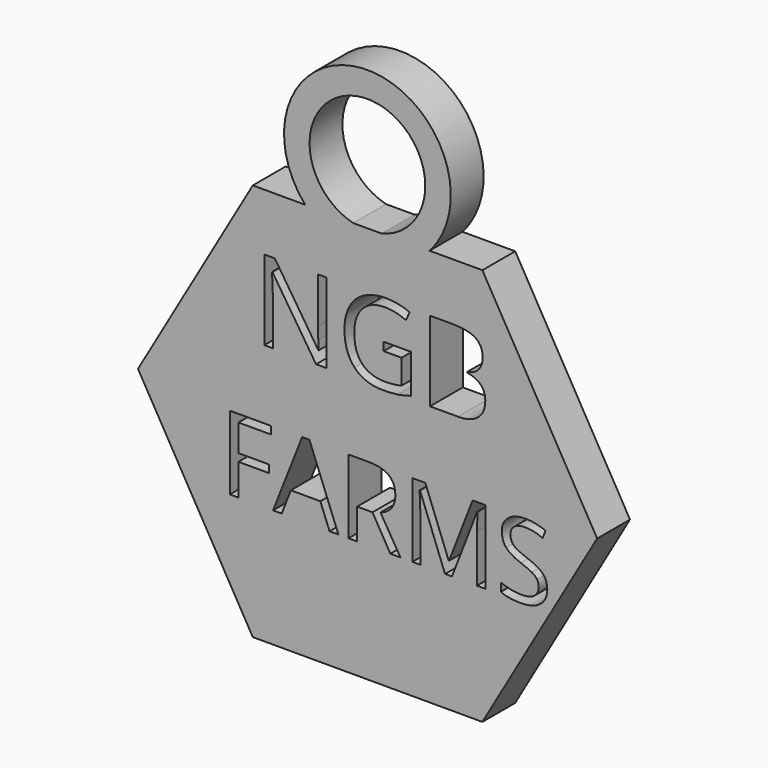
from build123d import *

# Parameters (mm, degrees)
F1_DEPTH = 25.4


with BuildPart() as f1:
    # F0 (on Front) → F1 (new body)
    with BuildSketch(Plane.XZ):
        with BuildLine():
            Line((-28.3874238815, -53.4927317824), (42.6537397291, 69.5423254694))
            Line((42.6537397291, 69.5423254694), (-28.3771636018, 192.5833064965))
            Line((-28.3771636018, 192.5833064965), (-61.0609722791, 192.5846692664))
            ThreePointArc((-61.0609722791, 192.5846692664), (-58.5135368966, 195.6655743417), (-56.2122900346, 198.9344680371))
            ThreePointArc((-56.2122900346, 198.9344680371), (-99.5171121866, 278.5709839604), (-142.8285646268, 198.9380738193))
            ThreePointArc((-142.8285646268, 198.9380738193), (-140.5275920089, 195.6689912503), (-137.9804156274, 192.5878764661))
            Line((-137.9804156274, 192.5878764661), (-170.4492305432, 192.5892302718))
            Line((-170.4492305432, 192.5892302718), (-241.4903941538, 69.5541730199))
            Line((-241.4903941538, 69.5541730199), (-170.4594908229, -53.4868080071))
            Line((-170.4594908229, -53.4868080071), (-28.3874238815, -53.4927317824))
        make_face()
        Polygon((-179.3379707306, 39.1267477462), (-179.3379707306, 19.6198038757), (-184.6417020133, 19.6198038757), (-184.6417020133, 65.2558645743), (-159.2017706062, 65.2558645743), (-159.2017706062, 60.5414367674), (-179.3379707306, 60.5414367674), (-179.3379707306, 43.8411755531), (-160.4203303359, 43.8411755531), (-160.4203303359, 39.1267477462), align=None, mode=Mode.SUBTRACT)
        Polygon((-117.4710939595, 19.6198038757), (-122.9646009378, 19.6198038757), (-128.6478836118, 34.1326504931), (-146.9362677526, 34.1326504931), (-152.5496330651, 19.6198038757), (-157.9232817094, 19.6198038757), (-139.8846024313, 65.4456402699), (-135.419879487, 65.4456402699), align=None, mode=Mode.SUBTRACT)
        with BuildLine():
            Line((-96.366038968, 38.5973734374), (-105.8947765268, 38.5973734374))
            Line((-105.8947765268, 38.5973734374), (-105.8947765268, 19.6198038757))
            Line((-105.8947765268, 19.6198038757), (-111.1985078096, 19.6198038757))
            Line((-111.1985078096, 19.6198038757), (-111.1985078096, 65.2558645743))
            Line((-111.1985078096, 65.2558645743), (-98.6833000934, 65.2558645743))
            add(Edge.make_bspline(
                [(-98.6833000934, 65.2558645743), (-90.2832285137, 65.2558645743), (-86.2729684195, 62.0396659433)],
                knots=[0, 0, 0, 1, 1, 1], degree=2))
            add(Edge.make_bspline(
                [(-86.2729684195, 62.0396659433), (-82.2627083253, 58.8234673123), (-82.2627083253, 52.3611054668)],
                knots=[0, 0, 0, 1, 1, 1], degree=2))
            add(Edge.make_bspline(
                [(-82.2627083253, 52.3611054668), (-82.2627083253, 43.3118012443), (-91.4418590764, 40.1255671968)],
                knots=[0, 0, 0, 1, 1, 1], degree=2))
            Line((-91.4418590764, 40.1255671968), (-79.0465096943, 19.6198038757))
            Line((-79.0465096943, 19.6198038757), (-85.3190958442, 19.6198038757))
            Line((-85.3190958442, 19.6198038757), (-96.366038968, 38.5973734374))
        make_face(mode=Mode.SUBTRACT)
        with BuildLine():
            Line((-47.2141338032, 19.6198038757), (-51.4890810518, 19.6198038757))
            Line((-51.4890810518, 19.6198038757), (-66.9707825364, 60.0719916256))
            Line((-66.9707825364, 60.0719916256), (-67.220487399, 60.0719916256))
            add(Edge.make_bspline(
                [(-67.220487399, 60.0719916256), (-66.7810068408, 55.2676700681), (-66.7810068408, 48.6454971106)],
                knots=[0, 0, 0, 1, 1, 1], degree=2))
            Line((-66.7810068408, 48.6454971106), (-66.7810068408, 19.6198038757))
            Line((-66.7810068408, 19.6198038757), (-71.6852103433, 19.6198038757))
            Line((-71.6852103433, 19.6198038757), (-71.6852103433, 65.2558645743))
            Line((-71.6852103433, 65.2558645743), (-63.6946547384, 65.2558645743))
            Line((-63.6946547384, 65.2558645743), (-49.241737288, 27.6103594806))
            Line((-49.241737288, 27.6103594806), (-48.9920324253, 27.6103594806))
            Line((-48.9920324253, 27.6103594806), (-34.4192566408, 65.2558645743))
            Line((-34.4192566408, 65.2558645743), (-26.4886302029, 65.2558645743))
            Line((-26.4886302029, 65.2558645743), (-26.4886302029, 19.6198038757))
            Line((-26.4886302029, 19.6198038757), (-31.7923614857, 19.6198038757))
            Line((-31.7923614857, 19.6198038757), (-31.7923614857, 49.0250485018))
            add(Edge.make_bspline(
                [(-31.7923614857, 49.0250485018), (-31.7923614857, 54.0790749219), (-31.3528809274, 60.0120624586)],
                knots=[0, 0, 0, 1, 1, 1], degree=2))
            Line((-31.3528809274, 60.0120624586), (-31.6025857901, 60.0120624586))
            Line((-31.6025857901, 60.0120624586), (-47.2141338032, 19.6198038757))
        make_face(mode=Mode.SUBTRACT)
        with BuildLine():
            add(Edge.make_bspline(
                [(9.0793304335, 39.3764526088), (11.7761429501, 36.439923424), (11.7761429501, 31.7654483952)],
                knots=[0, 0, 0, 1, 1, 1], degree=2))
            add(Edge.make_bspline(
                [(11.7761429501, 31.7654483952), (11.7761429501, 25.742567108), (7.4063078537, 22.3665573649)],
                knots=[0, 0, 0, 1, 1, 1], degree=2))
            add(Edge.make_bspline(
                [(7.4063078537, 22.3665573649), (3.0364727572, 18.9905476218), (-4.4546731224, 18.9905476218)],
                knots=[0, 0, 0, 1, 1, 1], degree=2))
            add(Edge.make_bspline(
                [(-4.4546731224, 18.9905476218), (-12.5650870614, 18.9905476218), (-16.9399162551, 21.0880684681)],
                knots=[0, 0, 0, 1, 1, 1], degree=2))
            Line((-16.9399162551, 21.0880684681), (-16.9399162551, 26.2020240552))
            add(Edge.make_bspline(
                [(-16.9399162551, 26.2020240552), (-14.1232454043, 25.0234171035), (-10.8171530228, 24.3342316826)],
                knots=[0, 0, 0, 1, 1, 1], degree=2))
            add(Edge.make_bspline(
                [(-10.8171530228, 24.3342316826), (-7.5110606413, 23.6450462617), (-4.2648974268, 23.6450462617)],
                knots=[0, 0, 0, 1, 1, 1], degree=2))
            add(Edge.make_bspline(
                [(-4.2648974268, 23.6450462617), (1.038833856, 23.6450462617), (3.7256581782, 25.6576674547)],
                knots=[0, 0, 0, 1, 1, 1], degree=2))
            add(Edge.make_bspline(
                [(3.7256581782, 25.6576674547), (6.4124825003, 27.6702886476), (6.4124825003, 31.2660386699)],
                knots=[0, 0, 0, 1, 1, 1], degree=2))
            add(Edge.make_bspline(
                [(6.4124825003, 31.2660386699), (6.4124825003, 33.6332407678), (5.458609925, 35.1464522355)],
                knots=[0, 0, 0, 1, 1, 1], degree=2))
            add(Edge.make_bspline(
                [(5.458609925, 35.1464522355), (4.5047373496, 36.6596637032), (2.2723758775, 37.9431466972)],
                knots=[0, 0, 0, 1, 1, 1], degree=2))
            add(Edge.make_bspline(
                [(2.2723758775, 37.9431466972), (0.0400144054, 39.2266296913), (-4.5146022894, 40.8447172013)],
                knots=[0, 0, 0, 1, 1, 1], degree=2))
            add(Edge.make_bspline(
                [(-4.5146022894, 40.8447172013), (-10.8770821898, 43.1220255487), (-13.6088533873, 46.2433363318)],
                knots=[0, 0, 0, 1, 1, 1], degree=2))
            add(Edge.make_bspline(
                [(-13.6088533873, 46.2433363318), (-16.3406245847, 49.364647115), (-16.3406245847, 54.3887089516)],
                knots=[0, 0, 0, 1, 1, 1], degree=2))
            add(Edge.make_bspline(
                [(-16.3406245847, 54.3887089516), (-16.3406245847, 59.6624756508), (-12.380305463, 62.783786434)],
                knots=[0, 0, 0, 1, 1, 1], degree=2))
            add(Edge.make_bspline(
                [(-12.380305463, 62.783786434), (-8.4199863413, 65.9050972172), (-1.8877071343, 65.9050972172)],
                knots=[0, 0, 0, 1, 1, 1], degree=2))
            add(Edge.make_bspline(
                [(-1.8877071343, 65.9050972172), (4.9142533244, 65.9050972172), (10.6275005819, 63.4080485906)],
                knots=[0, 0, 0, 1, 1, 1], degree=2))
            Line((10.6275005819, 63.4080485906), (8.9694602939, 58.7935027288))
            add(Edge.make_bspline(
                [(8.9694602939, 58.7935027288), (3.3161422034, 61.1607048268), (-2.0175536629, 61.1607048268)],
                knots=[0, 0, 0, 1, 1, 1], degree=2))
            add(Edge.make_bspline(
                [(-2.0175536629, 61.1607048268), (-6.2325717445, 61.1607048268), (-8.6047679397, 59.3528416211)],
                knots=[0, 0, 0, 1, 1, 1], degree=2))
            add(Edge.make_bspline(
                [(-8.6047679397, 59.3528416211), (-10.9769641349, 57.5449784155), (-10.9769641349, 54.3287797846)],
                knots=[0, 0, 0, 1, 1, 1], degree=2))
            add(Edge.make_bspline(
                [(-10.9769641349, 54.3287797846), (-10.9769641349, 51.9615776866), (-10.1029971156, 50.4433721217)],
                knots=[0, 0, 0, 1, 1, 1], degree=2))
            add(Edge.make_bspline(
                [(-10.1029971156, 50.4433721217), (-9.2290300963, 48.9251665567), (-7.151485639, 47.6616599517)],
                knots=[0, 0, 0, 1, 1, 1], degree=2))
            add(Edge.make_bspline(
                [(-7.151485639, 47.6616599517), (-5.0739411818, 46.3981533467), (-0.7989939331, 44.8699595872)],
                knots=[0, 0, 0, 1, 1, 1], degree=2))
            add(Edge.make_bspline(
                [(-0.7989939331, 44.8699595872), (6.3825179168, 42.3129817937), (9.0793304335, 39.3764526088)],
                knots=[0, 0, 0, 1, 1, 1], degree=2))
        make_face(mode=Mode.SUBTRACT)
        with BuildLine():
            Line((-124.742216872, 157.2750482058), (-124.742216872, 107.8880801797))
            Line((-124.742216872, 107.8880801797), (-131.292556689, 107.8880801797))
            Line((-131.292556689, 107.8880801797), (-158.2829832947, 149.3303291209))
            Line((-158.2829832947, 149.3303291209), (-158.553211835, 149.3303291209))
            add(Edge.make_bspline(
                [(-158.553211835, 149.3303291209), (-158.0127547544, 142.0341585326), (-158.0127547544, 135.9594209466)],
                knots=[0, 0, 0, 1, 1, 1], degree=2))
            Line((-158.0127547544, 135.9594209466), (-158.0127547544, 107.8880801797))
            Line((-158.0127547544, 107.8880801797), (-163.3200432859, 107.8880801797))
            Line((-163.3200432859, 107.8880801797), (-163.3200432859, 157.2750482058))
            Line((-163.3200432859, 157.2750482058), (-156.8345583186, 157.2750482058))
            Line((-156.8345583186, 157.2750482058), (-129.9089865626, 115.9949363888))
            Line((-129.9089865626, 115.9949363888), (-129.6387580223, 115.9949363888))
            add(Edge.make_bspline(
                [(-129.6387580223, 115.9949363888), (-129.703612872, 116.9029042843), (-129.9414139875, 121.8534911427)],
                knots=[0, 0, 0, 1, 1, 1], degree=2))
            add(Edge.make_bspline(
                [(-129.9414139875, 121.8534911427), (-130.1792151029, 126.804078001), (-130.1143602533, 128.9334788986)],
                knots=[0, 0, 0, 1, 1, 1], degree=2))
            Line((-130.1143602533, 128.9334788986), (-130.1143602533, 157.2750482058))
            Line((-130.1143602533, 157.2750482058), (-124.742216872, 157.2750482058))
        make_face(mode=Mode.SUBTRACT)
        with BuildLine():
            ThreePointArc((-108.2841651679, 192.2664267793), (-99.5422128085, 262.7778627166), (-90.7098534645, 192.2776942245))
            Line((-90.7098534645, 192.2776942245), (-108.2841651679, 192.2664267793))
        make_face(mode=Mode.SUBTRACT)
        with BuildLine():
            Line((-89.4395603666, 128.6308229335), (-89.4395603666, 133.7651651993))
            Line((-89.4395603666, 133.7651651993), (-72.6529634428, 133.7651651993))
            Line((-72.6529634428, 133.7651651993), (-72.6529634428, 109.747252537))
            add(Edge.make_bspline(
                [(-72.6529634428, 109.747252537), (-76.5766818481, 108.49339211), (-80.6301099526, 107.850248184)],
                knots=[0, 0, 0, 1, 1, 1], degree=2))
            add(Edge.make_bspline(
                [(-80.6301099526, 107.850248184), (-84.6835380572, 107.2071042581), (-90.0232540136, 107.2071042581)],
                knots=[0, 0, 0, 1, 1, 1], degree=2))
            add(Edge.make_bspline(
                [(-90.0232540136, 107.2071042581), (-101.2323338655, 107.2071042581), (-107.4800177173, 113.8817492037)],
                knots=[0, 0, 0, 1, 1, 1], degree=2))
            add(Edge.make_bspline(
                [(-107.4800177173, 113.8817492037), (-113.7277015692, 120.5563941492), (-113.7277015692, 132.576159622)],
                knots=[0, 0, 0, 1, 1, 1], degree=2))
            add(Edge.make_bspline(
                [(-113.7277015692, 132.576159622), (-113.7277015692, 140.2830775914), (-110.6362870681, 146.0767774956)],
                knots=[0, 0, 0, 1, 1, 1], degree=2))
            add(Edge.make_bspline(
                [(-110.6362870681, 146.0767774956), (-107.544872567, 151.8704773997), (-101.7349589504, 154.9240599052)],
                knots=[0, 0, 0, 1, 1, 1], degree=2))
            add(Edge.make_bspline(
                [(-101.7349589504, 154.9240599052), (-95.9250453339, 157.9776424106), (-88.1316542315, 157.9776424106)],
                knots=[0, 0, 0, 1, 1, 1], degree=2))
            add(Edge.make_bspline(
                [(-88.1316542315, 157.9776424106), (-80.2193625714, 157.9776424106), (-73.3987942141, 155.0807924585)],
                knots=[0, 0, 0, 1, 1, 1], degree=2))
            Line((-73.3987942141, 155.0807924585), (-75.6254773862, 150.0113050424))
            add(Edge.make_bspline(
                [(-75.6254773862, 150.0113050424), (-82.3163360441, 152.8433001448), (-88.4991650463, 152.8433001448)],
                knots=[0, 0, 0, 1, 1, 1], degree=2))
            add(Edge.make_bspline(
                [(-88.4991650463, 152.8433001448), (-97.5139891509, 152.8433001448), (-102.583476567, 147.4765613344)],
                knots=[0, 0, 0, 1, 1, 1], degree=2))
            add(Edge.make_bspline(
                [(-102.583476567, 147.4765613344), (-107.6529639831, 142.1098225239), (-107.6529639831, 132.576159622)],
                knots=[0, 0, 0, 1, 1, 1], degree=2))
            add(Edge.make_bspline(
                [(-107.6529639831, 132.576159622), (-107.6529639831, 122.5777036307), (-102.7726365452, 117.41093394)],
                knots=[0, 0, 0, 1, 1, 1], degree=2))
            add(Edge.make_bspline(
                [(-102.7726365452, 117.41093394), (-97.8923091073, 112.2441642494), (-88.4343101966, 112.2441642494)],
                knots=[0, 0, 0, 1, 1, 1], degree=2))
            add(Edge.make_bspline(
                [(-88.4343101966, 112.2441642494), (-83.2999679308, 112.2441642494), (-78.4034267805, 113.4331698267)],
                knots=[0, 0, 0, 1, 1, 1], degree=2))
            Line((-78.4034267805, 113.4331698267), (-78.4034267805, 128.6308229335))
            Line((-78.4034267805, 128.6308229335), (-89.4395603666, 128.6308229335))
        make_face(mode=Mode.SUBTRACT)
        with BuildLine():
            Line((-60.8061442359, 107.8880801797), (-60.8061442359, 157.2750482058))
            Line((-60.8061442359, 157.2750482058), (-46.8515424145, 157.2750482058))
            add(Edge.make_bspline(
                [(-46.8515424145, 157.2750482058), (-37.026032689, 157.2750482058), (-32.6321166237, 154.3349616873)],
                knots=[0, 0, 0, 1, 1, 1], degree=2))
            add(Edge.make_bspline(
                [(-32.6321166237, 154.3349616873), (-28.2382005583, 151.3948751688), (-28.2382005583, 145.0499090424)],
                knots=[0, 0, 0, 1, 1, 1], degree=2))
            add(Edge.make_bspline(
                [(-28.2382005583, 145.0499090424), (-28.2382005583, 140.6505884063), (-30.6864711335, 137.7969750206)],
                knots=[0, 0, 0, 1, 1, 1], degree=2))
            add(Edge.make_bspline(
                [(-30.6864711335, 137.7969750206), (-33.1347417086, 134.943361635), (-37.8367183099, 134.1002485893)],
                knots=[0, 0, 0, 1, 1, 1], degree=2))
            Line((-37.8367183099, 134.1002485893), (-37.8367183099, 133.7651651993))
            add(Edge.make_bspline(
                [(-37.8367183099, 133.7651651993), (-26.5844018916, 131.8411379923), (-26.5844018916, 121.9399642755)],
                knots=[0, 0, 0, 1, 1, 1], degree=2))
            add(Edge.make_bspline(
                [(-26.5844018916, 121.9399642755), (-26.5844018916, 115.3247696089), (-31.0593865191, 111.6064248943)],
                knots=[0, 0, 0, 1, 1, 1], degree=2))
            add(Edge.make_bspline(
                [(-31.0593865191, 111.6064248943), (-35.5343711465, 107.8880801797), (-43.576372506, 107.8880801797)],
                knots=[0, 0, 0, 1, 1, 1], degree=2))
            Line((-43.576372506, 107.8880801797), (-60.8061442359, 107.8880801797))
        make_face(mode=Mode.SUBTRACT)
    extrude(amount=F1_DEPTH)


solid = f1.part
